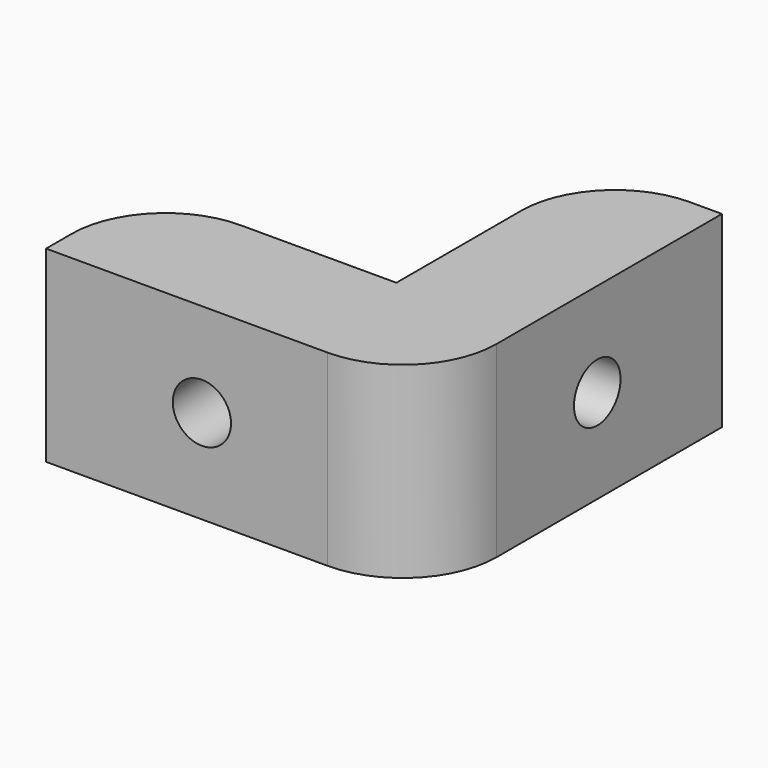
from build123d import *

# Parameters (mm, degrees)
F1_DEPTH       = 5
F4_D           = 3.1
F4_CSINK_D     = 6
F4_CSINK_ANGLE = 90
F5_D           = 3.1
F5_CSINK_D     = 6
F5_CSINK_ANGLE = 90
F6_R           = 5
F7_R           = 5


with BuildPart() as f1:
    # F0 (on Top) → F1 (new body, symmetric)
    with BuildSketch(Plane.XY):
        Polygon((-37.666672, 6.7), (-37.666672, 0), (-17.666672, 0), (-17.666672, 20.000001), (-24.366672, 20), (-24.366672, 6.7), align=None)
    extrude(amount=F1_DEPTH, both=True)

    # F4 (through all)
    with Locations(Plane(origin=(-24.366672, 0, 0), x_dir=(0, -1, 0), z_dir=(-1, 0, 0))):
        with Locations((-11.7, 0)):
            CounterSinkHole(F4_D / 2, F4_CSINK_D / 2, counter_sink_angle=F4_CSINK_ANGLE)

    # F5 (through all)
    with Locations(Plane(origin=(0, 6.7, 0), x_dir=(-1, 0, 0), z_dir=(0, 1, 0))):
        with Locations((29.366672, 0)):
            CounterSinkHole(F5_D / 2, F5_CSINK_D / 2, counter_sink_angle=F5_CSINK_ANGLE)

    # F6
    f6_edges = [f1.edges().sort_by_distance(p)[0] for p in [
        (-17.666672, 0, 0),
    ]]
    fillet(f6_edges, radius=F6_R)

    # F7
    f7_edges = [f1.edges().sort_by_distance(p)[0] for p in [
        (-24.366672, 20, 0),
        (-37.666672, 6.7, 0),
    ]]
    fillet(f7_edges, radius=F7_R)


solid = f1.part
